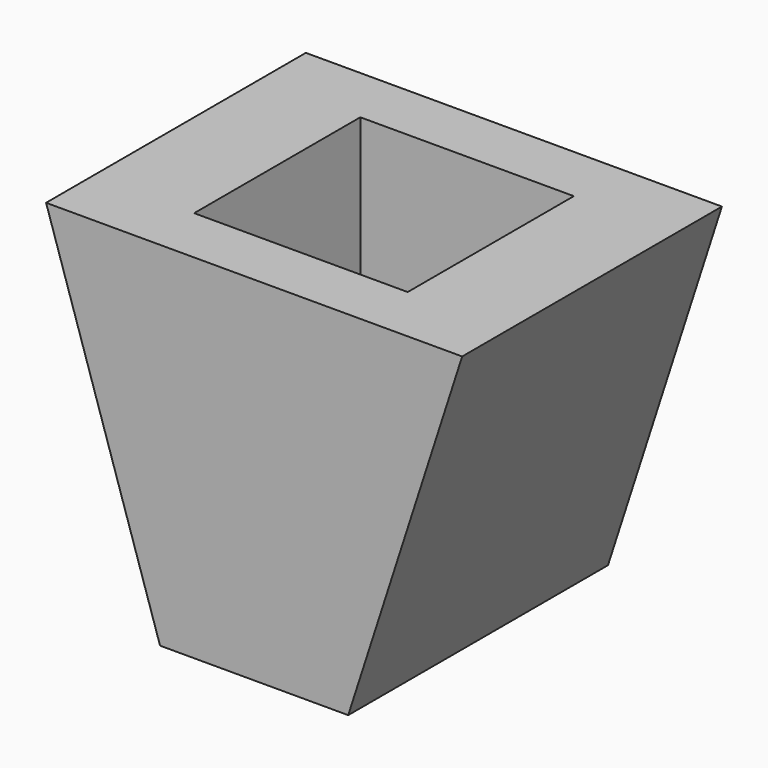
from build123d import *

# Parameters (mm, degrees)
F1_W      = 36.2
F1_H      = 22.2
F2_W      = 12.866667
F2_H      = 22.2
F3_FACE_W = 36.2
F3_FACE_H = 22.2
F4_DEPTH  = 12
F5_W      = 14.6
F5_H      = 14.2
F6_DEPTH  = 32


with BuildPart() as f3:
    # F1 (on offset) → F3 section 0
    with BuildSketch(Plane.XY.offset(36.125)):
        with Locations((0, -11.1)):
            Rectangle(F1_W, F1_H)
    # F2 (on Top) → F3 section 1
    with BuildSketch(Plane.XY):
        with Locations((-3.3e-05, -11.1)):
            Rectangle(F2_W, F2_H)
    loft()

    # F3_face (on face) → F4 (cut)
    with BuildSketch(Plane(origin=(0, -11.1, 36.125), x_dir=(1, 0, 0), z_dir=(0, 0, 1))):
        Rectangle(F3_FACE_W, F3_FACE_H)
    extrude(amount=-F4_DEPTH, mode=Mode.SUBTRACT)

    # F5 (on offset) → F6 (cut)
    with BuildSketch(Plane.XY.offset(36.125)):
        with Locations((0, -11.1)):
            Rectangle(F5_W, F5_H)
    extrude(amount=-F6_DEPTH, mode=Mode.SUBTRACT)


solid = f3.part
